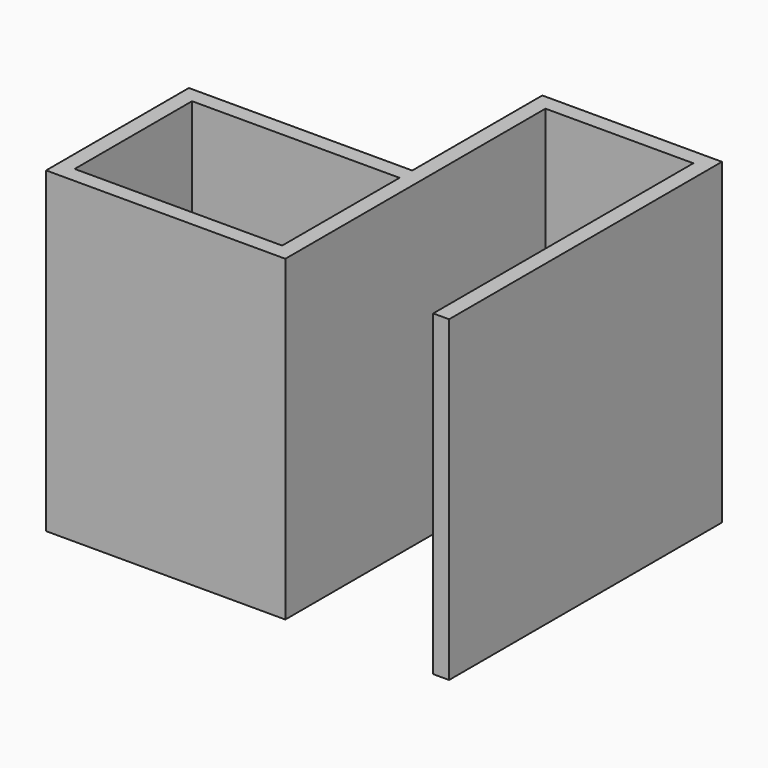
from build123d import *

# Parameters (mm, degrees)
F1_DEPTH = 127


with BuildPart() as f1:
    # F0 (on Top) → F1 (new body)
    with BuildSketch(Plane.XY):
        Polygon((-28.298991, 77.396043), (-28.298991, 12.387912), (-28.298991, 6.037912), (-28.298991, -52.634648), (-28.298991, -58.984648), (-21.948991, -58.984648), (-21.948991, 71.046043), (37.178166, 71.046043), (37.178166, -58.984648), (43.528166, -58.984648), (43.528166, 77.396043), align=None)
        Polygon((-28.298991, 12.387912), (-117.628343, 12.387912), (-117.628343, -58.984648), (-28.298991, -58.984648), (-28.298991, -52.634648), (-111.278343, -52.634648), (-111.278343, 6.037912), (-28.298991, 6.037912), align=None)
    extrude(amount=F1_DEPTH)


solid = f1.part
